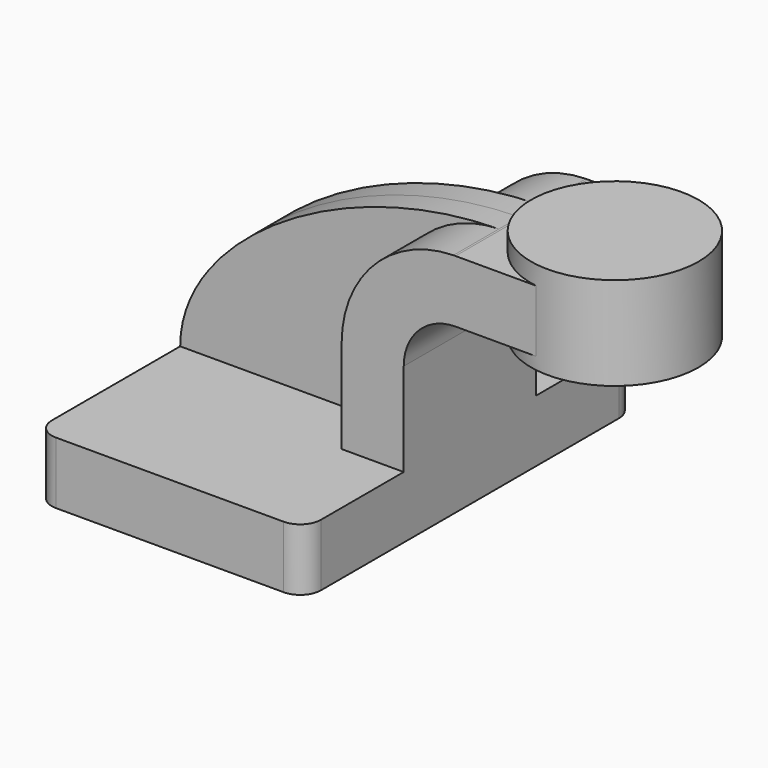
from build123d import *

# Parameters (mm, degrees)
F1_DEPTH = 63.5
F2_DEPTH = 25.4
F3_DEPTH = 7.9375
F0_W     = 25.108041
F0_H     = 19.05
F4_DEPTH = 25.4
F6_R     = 6.35


with BuildPart() as f1:
    # F0 (on Front) → F1 (new body, symmetric)
    with BuildSketch(Plane.XZ):
        Polygon((-41.275, -9.525), (41.275, -9.525), (41.275, 9.525), (22.225, 9.525), (-41.275, 9.525), align=None)
    extrude(amount=F1_DEPTH, both=True)

    # F0 (on Front) → F2 (join, symmetric)
    with BuildSketch(Plane.XZ):
        with BuildLine():
            Line((22.225, 9.525), (41.275, 9.525))
            Line((41.275, 9.525), (41.275, 38.1))
            ThreePointArc((41.275, 38.1), (45.92468, 49.32532), (57.15, 53.975))
            Line((57.15, 53.975), (60.616959, 53.975))
            Line((60.616959, 53.975), (60.616959, 73.025))
            Line((60.616959, 73.025), (57.15, 73.025))
            add(Edge.make_bspline(
                [(56.520232, 73.019322), (56.730123, 73.021776), (56.940047, 73.023669), (57.15, 73.025)],
                knots=[116.639514, 116.639514, 116.639514, 116.639514, 117.131254, 117.131254, 117.131254, 117.131254], degree=3))
            ThreePointArc((56.520232, 73.019322), (32.232634, 62.572035), (22.225, 38.1))
            Line((22.225, 38.1), (22.225, 9.525))
        make_face()
    extrude(amount=F2_DEPTH, both=True)

    # F0 (on Front) → F3 (join, symmetric)
    with BuildSketch(Plane.XZ):
        with BuildLine():
            add(Edge.make_bspline(
                [(-41.275, 9.525), (-41.24459, 40.322047), (6.734345, 72.437214), (56.520232, 73.019322)],
                knots=[0, 0, 0, 0, 116.639514, 116.639514, 116.639514, 116.639514], degree=3))
            Line((-41.275, 9.525), (22.225, 9.525))
            Line((22.225, 9.525), (22.225, 38.1))
            ThreePointArc((22.225, 38.1), (32.232634, 62.572035), (56.520232, 73.019322))
        make_face()
    extrude(amount=F3_DEPTH, both=True)

    # F0 (on Front) → F4 (join, symmetric)
    with BuildSketch(Plane.XZ):
        with Locations((73.170979, 63.5)):
            Rectangle(F0_W, F0_H)
    extrude(amount=F4_DEPTH, both=True)

    # F0 (on Front) → F5 (revolve)
    with BuildSketch(Plane.XZ):
        Polygon((85.725, 73.025), (85.725, 53.975), (85.725, 50.250445), (111.416959, 50.250445), (111.416959, 78.825445), (85.725, 78.825445), align=None)
    revolve(axis=Axis((85.725, 0, 64.537945), (0, 0, -1)))

    # F6
    f6_edges = [f1.edges().sort_by_distance(p)[0] for p in [
        (-41.275, -63.5, 0),
        (41.275, -63.5, 0),
        (41.275, 63.5, 0),
        (-41.275, 63.5, 0),
    ]]
    fillet(f6_edges, radius=F6_R)


solid = f1.part
